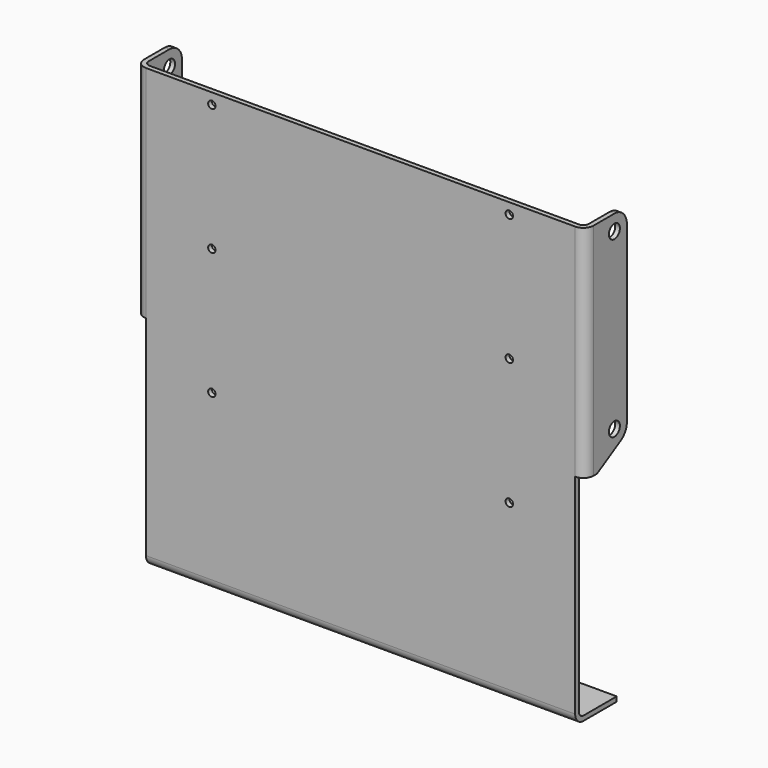
from build123d import *

# Parameters (mm, degrees)
F1_DEPTH  = 155.575
F2_R      = 3.69316
F3_R      = 1.98374
F7_DEPTH  = 155.575
F8_R      = 2.5
F9_DEPTH  = 162.96132
F10_R     = 5.674995
F11_R     = 1.35255
F12_DEPTH = 1.70942
F13_W     = 3.69316
F13_H     = 75.7569519651
F14_DEPTH = 3.69316


with BuildPart() as f1:
    # F0 (on Top) → F1 (new body)
    with BuildSketch(Plane.XY):
        Polygon((0, 0), (-1.70942, 0), (-1.70942, -18.8265943), (161.2519, -18.8265943), (161.2519, 0), (159.54248, 0), (159.54248, -17.1171743), (0, -17.1171743), align=None)
    extrude(amount=F1_DEPTH)

    # F2
    f2_edges = [f1.edges().sort_by_distance(p)[0] for p in [
        (161.2519, -18.826594, 77.7875),
        (-1.70942, -18.826594, 77.7875),
    ]]
    fillet(f2_edges, radius=F2_R)

    # F3
    f3_edges = [f1.edges().sort_by_distance(p)[0] for p in [
        (159.54248, -17.117174, 77.7875),
        (0, -17.117174, 77.7875),
    ]]
    fillet(f3_edges, radius=F3_R)

    # F5 (on offset) → F7 (join, through all)
    with BuildSketch(Plane.YZ.offset(1.98374)):
        with BuildLine():
            Line((-17.1171743, 0), (-18.8265943, 0))
            ThreePointArc((-18.8265943, 0), (-17.74489278, -2.61145848), (-15.1334343, -3.69316))
            Line((-15.1334343, -3.69316), (0, -3.69316))
            Line((0, -3.69316), (0, -1.98374))
            Line((0, -1.98374), (-15.1334343, -1.98374))
            ThreePointArc((-15.1334343, -1.98374), (-16.5361503061, -1.4027160061), (-17.1171743, 0))
        make_face()
    extrude(amount=F7_DEPTH)

    # F8 (on face) → F9 (cut, through all)
    with BuildSketch(Plane(origin=(-1.70942, 0, 0), x_dir=(0, -1, 0), z_dir=(-1, 0, 0))):
        with Locations((5.675, 149.9)):
            Circle(F8_R)
        with Locations((5.675, 86.8541635573)):
            Circle(F8_R)
        with BuildLine():
            ThreePointArc((2.8375, 81.9394693908), (0.7603058335, 84.0166635573), (0, 86.8541635573))
            Line((0, 86.8541635573), (0, 0))
            Line((0, 0), (15.1334343, 0))
            Line((15.1334343, 0), (15.1334343, 75.7569519651))
            Line((15.1334343, 75.7569519651), (13.5459343, 75.7569519651))
            Line((13.5459343, 75.7569519651), (2.8375, 81.9394693908))
        make_face()
    extrude(amount=-F9_DEPTH, mode=Mode.SUBTRACT)

    # F10
    f10_edges = [f1.edges().sort_by_distance(p)[0] for p in [
        (-0.85471, 0, 155.575),
        (160.39719, 0, 155.575),
    ]]
    fillet(f10_edges, radius=F10_R)

    # F11 (on face) → F12 (cut, through all)
    with BuildSketch(Plane(origin=(0, -17.1171743, 0), x_dir=(-1, 0, 0), z_dir=(0, 1, 0))):
        with Locations((-25.8627459407, 59.7118170977)):
            Circle(F11_R)
        with Locations((-25.8627459407, 105.6590335488)):
            Circle(F11_R)
        with Locations((-25.8627459407, 151.60625)):
            Circle(F11_R)
        with Locations((-133.6797340593, 151.60625)):
            Circle(F11_R)
        with Locations((-133.6797340593, 105.6590335488)):
            Circle(F11_R)
        with Locations((-133.6797340593, 59.7118170977)):
            Circle(F11_R)
    extrude(amount=-F12_DEPTH, mode=Mode.SUBTRACT)

    # F13 (on face) → F14 (cut, through all)
    with BuildSketch(Plane.XZ.offset(18.8265943)):
        with Locations((0.13716, 37.8784759826)):
            Rectangle(F13_W, F13_H)
        with Locations((159.40532, 37.8784759826)):
            Rectangle(F13_W, F13_H)
    extrude(amount=-F14_DEPTH, mode=Mode.SUBTRACT)


solid = f1.part
